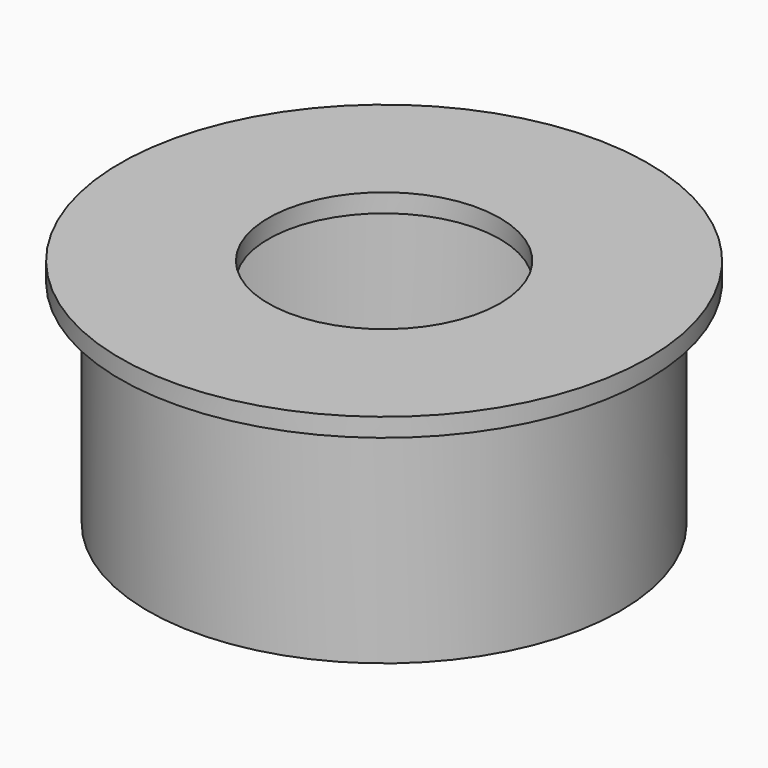
from build123d import *

# Parameters (mm, degrees)
F0_R     = 25.5
F0_R_2   = 12.5
F1_DEPTH = 25
F2_T     = -2
F3_DEPTH = 25
F4_R     = 28.5
F4_R_2   = 25.5
F5_DEPTH = 2


with BuildPart() as f1:
    # F0 (on Top) → F1 (new body)
    with BuildSketch(Plane.XY):
        Circle(F0_R)
        Circle(F0_R_2, mode=Mode.SUBTRACT)
        Circle(F0_R_2)
    extrude(amount=F1_DEPTH)

    # F2
    f2_openings = [f1.faces().sort_by_distance(p)[0] for p in [
        (0, 0, 0),
    ]]
    offset(amount=F2_T, openings=f2_openings)

    # F0 (on Top) → F3 (cut, through all)
    with BuildSketch(Plane.XY):
        Circle(F0_R_2)
    extrude(amount=F3_DEPTH, mode=Mode.SUBTRACT)

    # F4 (on face) → F5 (join)
    with BuildSketch(Plane.XY.offset(25)):
        Circle(F4_R)
        Circle(F4_R_2, mode=Mode.SUBTRACT)
    extrude(amount=-F5_DEPTH)


solid = f1.part
